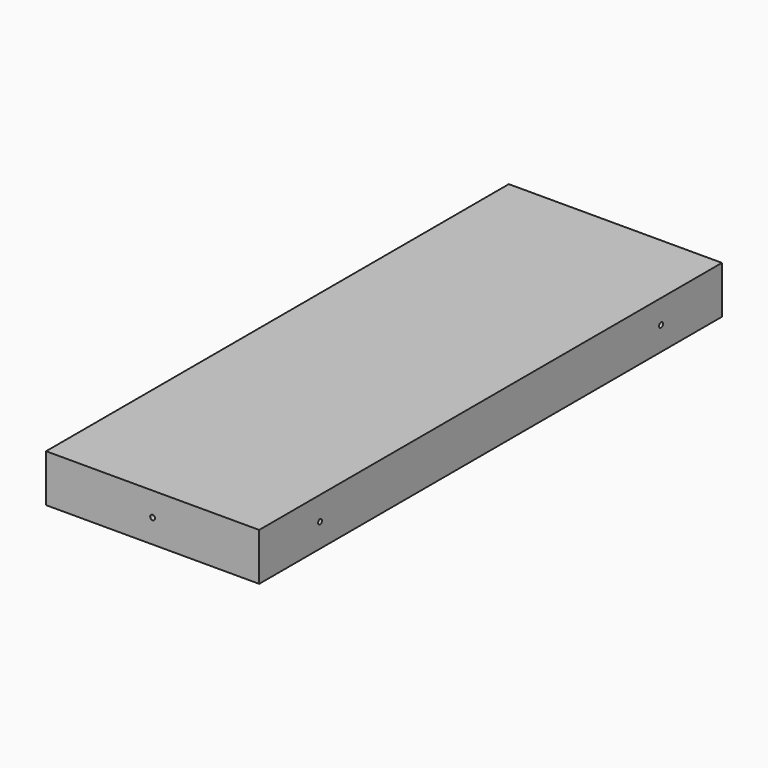
from build123d import *

# Parameters (mm, degrees)
F0_W     = 88.9
F0_H     = 241.3
F1_DEPTH = 19.812
F2_R     = 1.016
F3_DEPTH = 241.301
F4_R     = 1.016
F5_DEPTH = 88.901


with BuildPart() as f1:
    # F0 (on Top) → F1 (new body)
    with BuildSketch(Plane.XY):
        with Locations((44.45, 120.65)):
            Rectangle(F0_W, F0_H)
    extrude(amount=F1_DEPTH)

    # F2 (on face) → F3 (cut, through all)
    with BuildSketch(Plane.XZ):
        with Locations((44.45, 9.906)):
            Circle(F2_R)
    extrude(amount=-F3_DEPTH, mode=Mode.SUBTRACT)

    # F4 (on face) → F5 (cut, through all)
    with BuildSketch(Plane(origin=(0, 0, 0), x_dir=(0, -1, 0), z_dir=(-1, 0, 0))):
        with Locations((-209.55, 9.906)):
            Circle(F4_R)
        with Locations((-31.75, 9.906)):
            Circle(F4_R)
    extrude(amount=-F5_DEPTH, mode=Mode.SUBTRACT)


solid = f1.part
